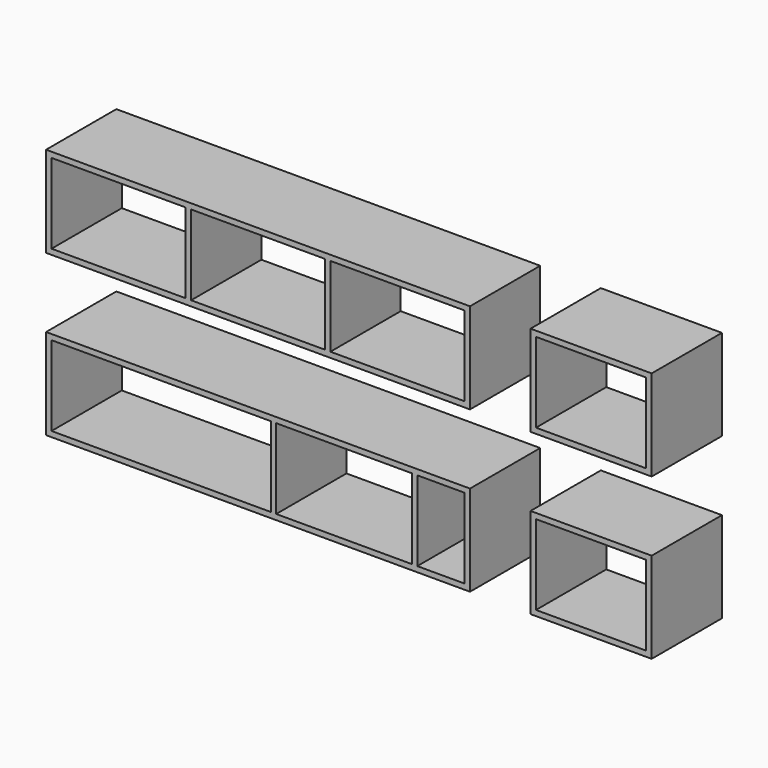
from build123d import *

# Parameters (mm, degrees)
F0_W     = 1400
F0_H     = 300
F0_W_2   = 443
F0_H_2   = 264
F0_W_3   = 442
F0_W_4   = 400
F0_W_5   = 364
F0_W_6   = 156.000413
F1_DEPTH = 290


with BuildPart() as f1:
    # F0 (on Front) → F1 (new body)
    with BuildSketch(Plane.XZ):
        with Locations((700, 150)):
            Rectangle(F0_W, F0_H)
        with Locations((239.5, 150)):
            Rectangle(F0_W_2, F0_H_2, mode=Mode.SUBTRACT)
        with Locations((700, 150)):
            Rectangle(F0_W_3, F0_H_2, mode=Mode.SUBTRACT)
        with Locations((1160.5, 150)):
            Rectangle(F0_W_2, F0_H_2, mode=Mode.SUBTRACT)
        with Locations((1800, 150)):
            Rectangle(F0_W_4, F0_H)
        with Locations((1800, 150)):
            Rectangle(F0_W_5, F0_H_2, mode=Mode.SUBTRACT)
        with Locations((700, -380)):
            Rectangle(F0_W, F0_H)
        Polygon((742.000043, -248), (742.000043, -512), (479, -512), (18, -512), (18, -248), (479, -248), align=None, mode=Mode.SUBTRACT)
        Polygon((1207.999587, -248), (1207.999587, -512), (939, -512), (760.000043, -512), (760.000043, -248), (939, -248), align=None, mode=Mode.SUBTRACT)
        with Locations((1303.999794, -380)):
            Rectangle(F0_W_6, F0_H_2, mode=Mode.SUBTRACT)
        with Locations((1800, -380)):
            Rectangle(F0_W_4, F0_H)
        with Locations((1800, -380)):
            Rectangle(F0_W_5, F0_H_2, mode=Mode.SUBTRACT)
    extrude(amount=F1_DEPTH)


solid = f1.part
